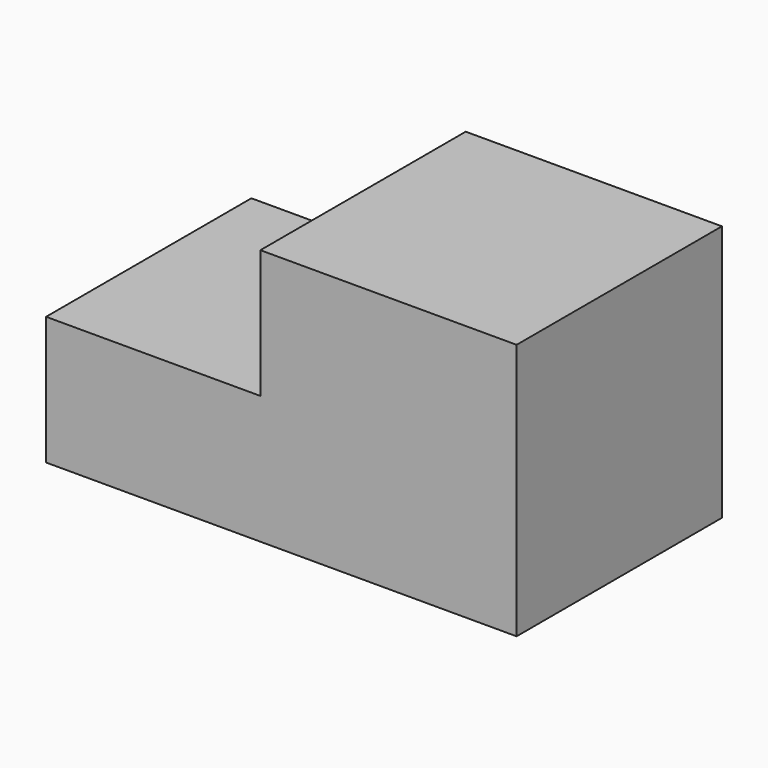
from build123d import *

# Parameters (mm, degrees)
F0_W     = 55
F0_H     = 30
F1_DEPTH = 30
F2_W     = 25.0525429472
F2_H     = 15
F3_DEPTH = 30.001


with BuildPart() as f1:
    # F0 (on Top) → F1 (new body)
    with BuildSketch(Plane.XY):
        Rectangle(F0_W, F0_H)
    extrude(amount=F1_DEPTH)

    # F2 (on face) → F3 (cut, through all)
    with BuildSketch(Plane.XZ.offset(15)):
        with Locations((-14.9737285264, 22.5)):
            Rectangle(F2_W, F2_H)
    extrude(amount=-F3_DEPTH, mode=Mode.SUBTRACT)


solid = f1.part
